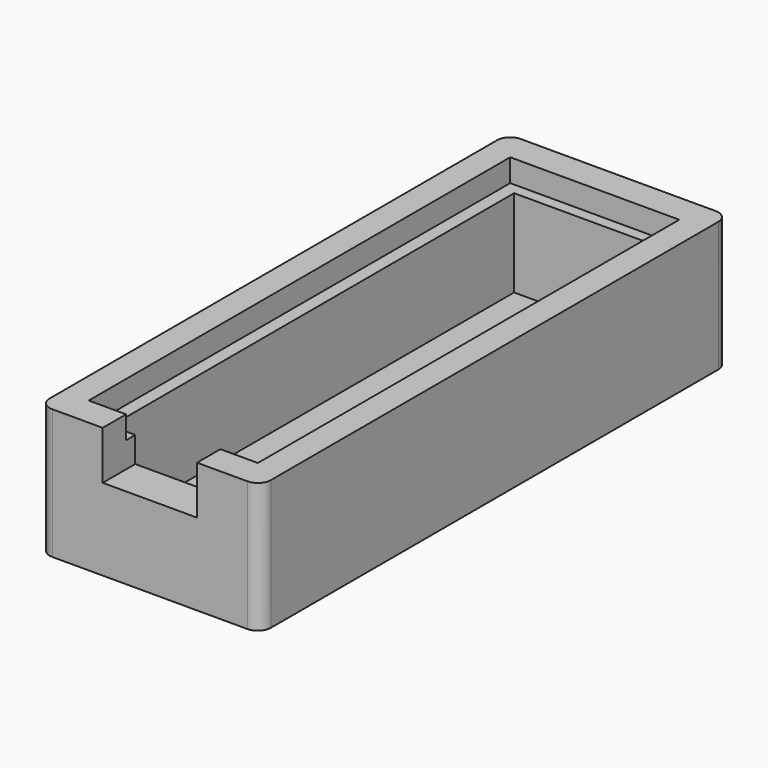
from build123d import *

# Parameters (mm, degrees)
PAD_DEPTH       = 20
SKETCH001_W     = 26
SKETCH001_H     = 81
POCKET_DEPTH    = 3.5
SKETCH002_W     = 22
SKETCH002_H     = 77.5
POCKET001_DEPTH = 13.44
SKETCH003_W     = 14.5
SKETCH003_H     = 7.44
POCKET002_DEPTH = 45
SKETCH004_R     = 5
POCKET003_DEPTH = 3.061


with BuildPart() as part:
    # Sketch → Pad (new body)
    with BuildSketch(Plane.XY):
        with BuildLine():
            Line((-17, 43), (-17, -43))
            ThreePointArc((-17, -43), (-16.414214, -44.414214), (-15, -45))
            Line((-15, -45), (15, -45))
            ThreePointArc((15, -45), (16.414214, -44.414214), (17, -43))
            Line((17, -43), (17, 43))
            ThreePointArc((17, 43), (16.414214, 44.414214), (15, 45))
            Line((15, 45), (-15, 45))
            ThreePointArc((-15, 45), (-16.414214, 44.414214), (-17, 43))
        make_face()
    extrude(amount=PAD_DEPTH)

    # Sketch001 (on Face10 of Pad) → Pocket (cut)
    with BuildSketch(Plane.XY.offset(20)):
        Rectangle(SKETCH001_W, SKETCH001_H)
    extrude(amount=-POCKET_DEPTH, mode=Mode.SUBTRACT)

    # Sketch002 (on Face15 of Pocket) → Pocket001 (cut)
    with BuildSketch(Plane.XY.offset(16.5)):
        Rectangle(SKETCH002_W, SKETCH002_H)
    extrude(amount=-POCKET001_DEPTH, mode=Mode.SUBTRACT)

    # Sketch003 (on Face7 of Pocket001) → Pocket002 (cut)
    with BuildSketch(Plane.XZ.offset(45)):
        with Locations((0, 16.28)):
            Rectangle(SKETCH003_W, SKETCH003_H)
    extrude(amount=-POCKET002_DEPTH, mode=Mode.SUBTRACT)

    # Sketch004 (on Face24 of Pocket002) → Pocket003 (cut, through all)
    with BuildSketch(Plane.XY.offset(3.06)):
        Circle(SKETCH004_R)
    extrude(amount=-POCKET003_DEPTH, mode=Mode.SUBTRACT)


solid = part.part
